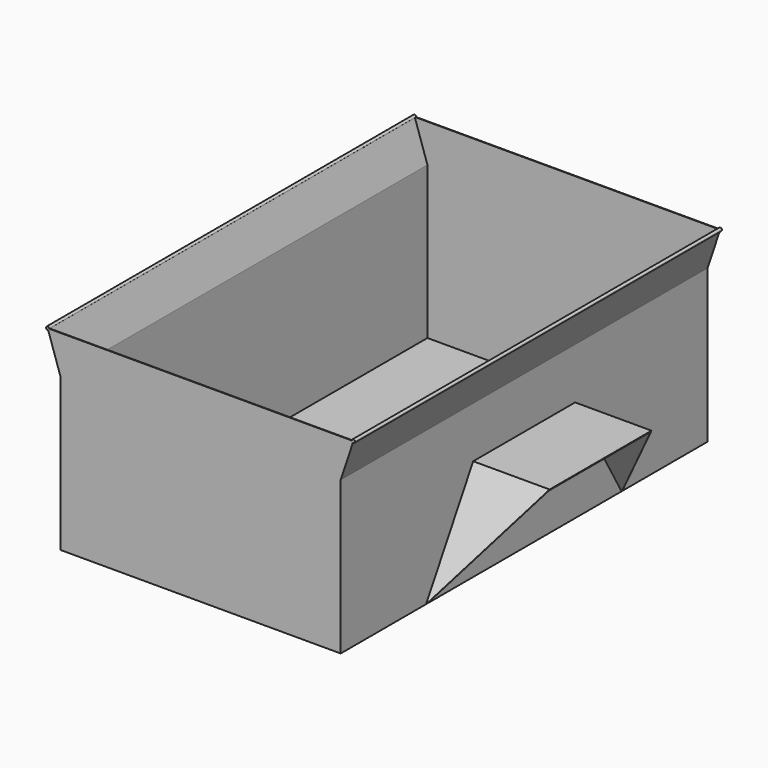
from build123d import *

# Parameters (mm, degrees)
F1_DEPTH  = 1828.8
F2_T      = -2.54
F6_DEPTH  = 304.8
F9_DEPTH  = 25.4
F10_DEPTH = 25.4


with BuildPart() as f1:
    # F0 (on Front) → F1 (new body)
    with BuildSketch(Plane.XZ):
        Polygon((0, 609.6), (0, 0), (1117.6, 0), (1117.6, 609.6), (1168.4, 762), (558.8, 762), (-50.8, 762), align=None)
    extrude(amount=-F1_DEPTH)

    # F2
    f2_openings = [f1.faces().sort_by_distance(p)[0] for p in [
        (558.8, 914.4, 762),
    ]]
    offset(amount=F2_T, openings=f2_openings, kind=Kind.INTERSECTION)

    # F4: sweep along a path in F4_path
    with BuildLine(Plane(origin=(-50.8, 1828.8, 762), x_dir=(0, 1, 0), z_dir=(0, 0, 1))) as f4_path:
        Line((0, 0), (-1828.8, 0))
    # F3 (on face) → F4 (sweep)
    with BuildSketch(Plane.XZ):
        with BuildLine():
            ThreePointArc((1166.3919536858, 755.9758610574), (1172.1129103076, 756.8486121241), (1174.75, 762))
            ThreePointArc((1174.75, 762), (1168.4, 768.35), (1162.05, 762))
            Line((1162.05, 762), (1168.4, 762))
            Line((1168.4, 762), (1166.3919536858, 755.9758610574))
        make_face()
        with BuildLine():
            Line((-50.8, 762), (-44.45, 762))
            ThreePointArc((-44.45, 762), (-55.9513878759, 765.7129103076), (-48.7919536858, 755.9758610574))
            Line((-48.7919536858, 755.9758610574), (-50.8, 762))
        make_face()
    sweep(path=f4_path.line)


with BuildPart() as f6:
    # F5 (on face) → F6 (new body)
    with BuildSketch(Plane.YZ.offset(1117.6)):
        Polygon((1168.4, 406.4), (914.4, 406.4), (660.4, 406.4), (425.7648506013, 0), (427.9645551269, -1.27), (661.8664696837, 403.86), (914.4, 403.86), (1166.9335303163, 403.86), (1400.8354448731, -1.27), (1403.0351493987, 0), align=None)
    extrude(amount=F6_DEPTH)

    # F8 (on face) → F9 (cut)
    with BuildSketch(Plane(origin=(0, 1052.276362049, 607.5320408909), x_dir=(-1, 0, 0), z_dir=(0, 0.8660254038, 0.5))):
        Polygon((-1117.6, -701.5175746993), (-1422.4, -232.247275902), (-1422.4, -701.5175746993), align=None)
    extrude(amount=-F9_DEPTH, mode=Mode.SUBTRACT)

    # F7 (on face) → F10 (cut)
    with BuildSketch(Plane(origin=(0, 319.323637951, -184.3615883296), x_dir=(1, 0, 0), z_dir=(0, -0.8660254038, 0.5))):
        Polygon((1422.4, 682.152724098), (1117.6, 212.8824253007), (1422.4, 212.8824253007), align=None)
    extrude(amount=-F10_DEPTH, mode=Mode.SUBTRACT)


solid = Compound([f1.part, f6.part])
